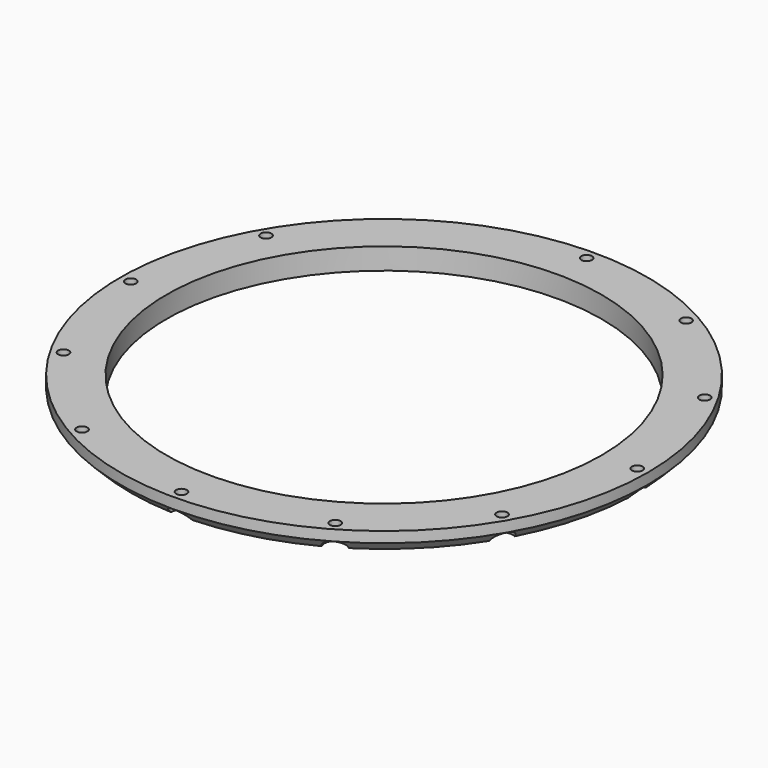
from build123d import *

# Parameters (mm, degrees)
CYLINDER974_R               = 1.5
CYLINDER974_DEPTH           = 60
CYLINDER974_PLACEMENT_ANGLE = 30
CYLINDER975_R               = 1.5
CYLINDER975_DEPTH           = 60
CYLINDER975_PLACEMENT_ANGLE = 60
CYLINDER976_R               = 1.5
CYLINDER976_DEPTH           = 60
CYLINDER977_R               = 1.5
CYLINDER977_DEPTH           = 60
CYLINDER977_PLACEMENT_ANGLE = 120
CYLINDER978_R               = 1.5
CYLINDER978_DEPTH           = 60
CYLINDER978_PLACEMENT_ANGLE = 150
CYLINDER979_R               = 1.5
CYLINDER979_DEPTH           = 60
CYLINDER980_R               = 1.5
CYLINDER980_DEPTH           = 60
CYLINDER980_PLACEMENT_ANGLE = 210
CYLINDER981_R               = 1.5
CYLINDER981_DEPTH           = 60
CYLINDER981_PLACEMENT_ANGLE = 240
CYLINDER982_R               = 1.5
CYLINDER982_DEPTH           = 60
CYLINDER983_R               = 1.5
CYLINDER983_DEPTH           = 60
CYLINDER983_PLACEMENT_ANGLE = 60
CYLINDER973_R               = 1.5
CYLINDER973_DEPTH           = 60
CYLINDER990_R               = 3
CYLINDER990_DEPTH           = 3
CYLINDER990_PLACEMENT_ANGLE = 30
CYLINDER991_R               = 3
CYLINDER991_DEPTH           = 3
CYLINDER991_PLACEMENT_ANGLE = 60
CYLINDER987_R               = 3
CYLINDER987_DEPTH           = 3
CYLINDER988_R               = 3
CYLINDER988_DEPTH           = 3
CYLINDER988_PLACEMENT_ANGLE = 120
CYLINDER984_R               = 3
CYLINDER984_DEPTH           = 3
CYLINDER984_PLACEMENT_ANGLE = 150
CYLINDER989_R               = 3
CYLINDER989_DEPTH           = 3
CYLINDER994_R               = 3
CYLINDER994_DEPTH           = 3
CYLINDER994_PLACEMENT_ANGLE = 210
CYLINDER985_R               = 3
CYLINDER985_DEPTH           = 3
CYLINDER985_PLACEMENT_ANGLE = 240
CYLINDER986_R               = 3
CYLINDER986_DEPTH           = 3
CYLINDER992_R               = 3
CYLINDER992_DEPTH           = 3
CYLINDER992_PLACEMENT_ANGLE = 60
CYLINDER993_R               = 3
CYLINDER993_DEPTH           = 3
TUBE031_R                   = 74
TUBE031_R_2                 = 61
TUBE031_DEPTH               = 6
CHAMFER_SIZE                = 3
CUT208_PLACEMENT_ANGLE      = 180


with BuildPart() as obj1:
    # Cylinder974 → Cylinder974 (new body)
    with BuildSketch(Plane.XY):
        Circle(CYLINDER974_R)
    extrude(amount=CYLINDER974_DEPTH)


with BuildPart() as obj1_1:
    # Cylinder974 placement: moved
    add(obj1.part.moved(Location((35.5, -61.487804, 0))).rotate(Axis((35.5, -61.487804, 0), (0, 0, 1)), CYLINDER974_PLACEMENT_ANGLE))


with BuildPart() as obj2:
    # Cylinder975 → Cylinder975 (new body)
    with BuildSketch(Plane.XY):
        Circle(CYLINDER975_R)
    extrude(amount=CYLINDER975_DEPTH)


with BuildPart() as obj2_1:
    # Cylinder975 placement: moved
    add(obj2.part.moved(Location((61.487804, -35.5, 0))).rotate(Axis((61.487804, -35.5, 0), (0, 0, 1)), CYLINDER975_PLACEMENT_ANGLE))


with BuildPart() as obj3:
    # Cylinder976 → Cylinder976 (new body)
    with BuildSketch(Plane(origin=(71, 0, 0), x_dir=(0, 1, 0), z_dir=(0, 0, 1))):
        Circle(CYLINDER976_R)
    extrude(amount=CYLINDER976_DEPTH)


with BuildPart() as obj4:
    # Cylinder977 → Cylinder977 (new body)
    with BuildSketch(Plane.XY):
        Circle(CYLINDER977_R)
    extrude(amount=CYLINDER977_DEPTH)


with BuildPart() as obj4_1:
    # Cylinder977 placement: moved
    add(obj4.part.moved(Location((61.487804, 35.5, 0))).rotate(Axis((61.487804, 35.5, 0), (0, 0, 1)), CYLINDER977_PLACEMENT_ANGLE))


with BuildPart() as obj5:
    # Cylinder978 → Cylinder978 (new body)
    with BuildSketch(Plane.XY):
        Circle(CYLINDER978_R)
    extrude(amount=CYLINDER978_DEPTH)


with BuildPart() as obj5_1:
    # Cylinder978 placement: moved
    add(obj5.part.moved(Location((35.5, 61.487804, 0))).rotate(Axis((35.5, 61.487804, 0), (0, 0, 1)), CYLINDER978_PLACEMENT_ANGLE))


with BuildPart() as obj6:
    # Cylinder979 → Cylinder979 (new body)
    with BuildSketch(Plane(origin=(0, 71, 0), x_dir=(-1, 0, 0), z_dir=(0, 0, 1))):
        Circle(CYLINDER979_R)
    extrude(amount=CYLINDER979_DEPTH)


with BuildPart() as obj7:
    # Cylinder980 → Cylinder980 (new body)
    with BuildSketch(Plane.XY):
        Circle(CYLINDER980_R)
    extrude(amount=CYLINDER980_DEPTH)


with BuildPart() as obj7_1:
    # Cylinder980 placement: moved
    add(obj7.part.moved(Location((-35.5, 61.487804, 0))).rotate(Axis((-35.5, 61.487804, 0), (0, 0, 1)), CYLINDER980_PLACEMENT_ANGLE))


with BuildPart() as obj8:
    # Cylinder981 → Cylinder981 (new body)
    with BuildSketch(Plane.XY):
        Circle(CYLINDER981_R)
    extrude(amount=CYLINDER981_DEPTH)


with BuildPart() as obj8_1:
    # Cylinder981 placement: moved
    add(obj8.part.moved(Location((-61.487804, 35.5, 0))).rotate(Axis((-61.487804, 35.5, 0), (0, 0, 1)), CYLINDER981_PLACEMENT_ANGLE))


with BuildPart() as obj9:
    # Cylinder982 → Cylinder982 (new body)
    with BuildSketch(Plane(origin=(-71, 0, 0), x_dir=(0, -1, 0), z_dir=(0, 0, 1))):
        Circle(CYLINDER982_R)
    extrude(amount=CYLINDER982_DEPTH)


with BuildPart() as obj10:
    # Cylinder983 → Cylinder983 (new body)
    with BuildSketch(Plane.XY):
        Circle(CYLINDER983_R)
    extrude(amount=CYLINDER983_DEPTH)


with BuildPart() as obj10_1:
    # Cylinder983 placement: moved
    add(obj10.part.moved(Location((-61.487804, -35.5, 0))).rotate(Axis((-61.487804, -35.5, 0), (0, 0, -1)), CYLINDER983_PLACEMENT_ANGLE))


with BuildPart() as compound525:
    # Cylinder973 → Cylinder973 (new body)
    with BuildSketch(Plane(origin=(0, -71, 0), x_dir=(1, 0, 0), z_dir=(0, 0, 1))):
        Circle(CYLINDER973_R)
    extrude(amount=CYLINDER973_DEPTH)

    # Compound525: union obj1, obj2, obj3, obj4, obj5, obj6, obj7, obj8, obj9, obj10
    add(obj1_1.part)
    add(obj2_1.part)
    add(obj3.part)
    add(obj4_1.part)
    add(obj5_1.part)
    add(obj6.part)
    add(obj7_1.part)
    add(obj8_1.part)
    add(obj9.part)
    add(obj10_1.part)


with BuildPart() as obj11:
    # Cylinder990 → Cylinder990 (new body)
    with BuildSketch(Plane.XY):
        Circle(CYLINDER990_R)
    extrude(amount=CYLINDER990_DEPTH)


with BuildPart() as obj11_1:
    # Cylinder990 placement: moved
    add(obj11.part.moved(Location((35.5, -61.487804, 0))).rotate(Axis((35.5, -61.487804, 0), (0, 0, 1)), CYLINDER990_PLACEMENT_ANGLE))


with BuildPart() as obj12:
    # Cylinder991 → Cylinder991 (new body)
    with BuildSketch(Plane.XY):
        Circle(CYLINDER991_R)
    extrude(amount=CYLINDER991_DEPTH)


with BuildPart() as obj12_1:
    # Cylinder991 placement: moved
    add(obj12.part.moved(Location((61.487804, -35.5, 0))).rotate(Axis((61.487804, -35.5, 0), (0, 0, 1)), CYLINDER991_PLACEMENT_ANGLE))


with BuildPart() as obj13:
    # Cylinder987 → Cylinder987 (new body)
    with BuildSketch(Plane(origin=(71, 0, 0), x_dir=(0, 1, 0), z_dir=(0, 0, 1))):
        Circle(CYLINDER987_R)
    extrude(amount=CYLINDER987_DEPTH)


with BuildPart() as obj14:
    # Cylinder988 → Cylinder988 (new body)
    with BuildSketch(Plane.XY):
        Circle(CYLINDER988_R)
    extrude(amount=CYLINDER988_DEPTH)


with BuildPart() as obj14_1:
    # Cylinder988 placement: moved
    add(obj14.part.moved(Location((61.487804, 35.5, 0))).rotate(Axis((61.487804, 35.5, 0), (0, 0, 1)), CYLINDER988_PLACEMENT_ANGLE))


with BuildPart() as obj15:
    # Cylinder984 → Cylinder984 (new body)
    with BuildSketch(Plane.XY):
        Circle(CYLINDER984_R)
    extrude(amount=CYLINDER984_DEPTH)


with BuildPart() as obj15_1:
    # Cylinder984 placement: moved
    add(obj15.part.moved(Location((35.5, 61.487804, 0))).rotate(Axis((35.5, 61.487804, 0), (0, 0, 1)), CYLINDER984_PLACEMENT_ANGLE))


with BuildPart() as obj16:
    # Cylinder989 → Cylinder989 (new body)
    with BuildSketch(Plane(origin=(0, 71, 0), x_dir=(-1, 0, 0), z_dir=(0, 0, 1))):
        Circle(CYLINDER989_R)
    extrude(amount=CYLINDER989_DEPTH)


with BuildPart() as obj17:
    # Cylinder994 → Cylinder994 (new body)
    with BuildSketch(Plane.XY):
        Circle(CYLINDER994_R)
    extrude(amount=CYLINDER994_DEPTH)


with BuildPart() as obj17_1:
    # Cylinder994 placement: moved
    add(obj17.part.moved(Location((-35.5, 61.487804, 0))).rotate(Axis((-35.5, 61.487804, 0), (0, 0, 1)), CYLINDER994_PLACEMENT_ANGLE))


with BuildPart() as obj18:
    # Cylinder985 → Cylinder985 (new body)
    with BuildSketch(Plane.XY):
        Circle(CYLINDER985_R)
    extrude(amount=CYLINDER985_DEPTH)


with BuildPart() as obj18_1:
    # Cylinder985 placement: moved
    add(obj18.part.moved(Location((-61.487804, 35.5, 0))).rotate(Axis((-61.487804, 35.5, 0), (0, 0, 1)), CYLINDER985_PLACEMENT_ANGLE))


with BuildPart() as obj19:
    # Cylinder986 → Cylinder986 (new body)
    with BuildSketch(Plane(origin=(-71, 0, 0), x_dir=(0, -1, 0), z_dir=(0, 0, 1))):
        Circle(CYLINDER986_R)
    extrude(amount=CYLINDER986_DEPTH)


with BuildPart() as obj20:
    # Cylinder992 → Cylinder992 (new body)
    with BuildSketch(Plane.XY):
        Circle(CYLINDER992_R)
    extrude(amount=CYLINDER992_DEPTH)


with BuildPart() as obj20_1:
    # Cylinder992 placement: moved
    add(obj20.part.moved(Location((-61.487804, -35.5, 0))).rotate(Axis((-61.487804, -35.5, 0), (0, 0, -1)), CYLINDER992_PLACEMENT_ANGLE))


with BuildPart() as compound526:
    # Cylinder993 → Cylinder993 (new body)
    with BuildSketch(Plane(origin=(0, -71, 0), x_dir=(1, 0, 0), z_dir=(0, 0, 1))):
        Circle(CYLINDER993_R)
    extrude(amount=CYLINDER993_DEPTH)

    # Compound526: union obj11, obj12, obj13, obj14, obj15, obj16, obj17, obj18, obj19, obj20
    add(obj11_1.part)
    add(obj12_1.part)
    add(obj13.part)
    add(obj14_1.part)
    add(obj15_1.part)
    add(obj16.part)
    add(obj17_1.part)
    add(obj18_1.part)
    add(obj19.part)
    add(obj20_1.part)


with BuildPart() as compound526_1:
    # Compound526 placement: moved
    add(compound526.part.moved(Location((0, 0, 17))))


with BuildPart() as obj21:
    # Tube031 → Tube031 (new body)
    with BuildSketch(Plane.XY.offset(14)):
        Circle(TUBE031_R)
        Circle(TUBE031_R_2, mode=Mode.SUBTRACT)
    extrude(amount=TUBE031_DEPTH)

    # Chamfer
    chamfer_edges = [obj21.edges().sort_by_distance(p)[0] for p in [
        (-74, 0, 20),
    ]]
    chamfer(chamfer_edges, length=CHAMFER_SIZE)

    # Cut207: cut Compound526
    add(compound526_1.part, mode=Mode.SUBTRACT)

    # Cut208: cut Compound525
    add(compound525.part, mode=Mode.SUBTRACT)


with BuildPart() as obj21_1:
    # Cut208 placement: moved
    add(obj21.part.moved(Location((0, 0, 28))).rotate(Axis((0, 0, 28), (1, 0, 0)), CUT208_PLACEMENT_ANGLE))


solid = obj21_1.part
